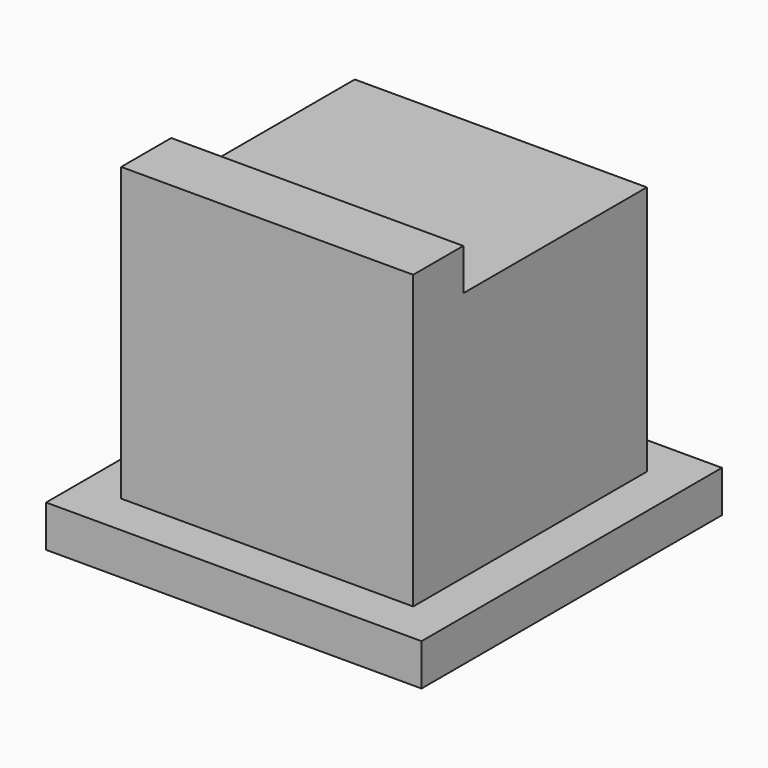
from build123d import *

# Parameters (mm, degrees)
F0_W     = 7
F0_H     = 7
F1_DEPTH = 6
F2_W     = 9
F2_H     = 9
F2_W_2   = 7
F2_H_2   = 7
F3_DEPTH = 1
F4_W     = 7
F4_H     = 1.5
F5_DEPTH = 1


with BuildPart() as f1:
    # F0 (on Top) → F1 (new body)
    with BuildSketch(Plane.XY):
        with Locations((-7.9846676588, 7.7618638836)):
            Rectangle(F0_W, F0_H)
    extrude(amount=F1_DEPTH)

    # F2 (on face) → F3 (join)
    with BuildSketch(Plane(origin=(0, 0, 0), x_dir=(1, 0, 0), z_dir=(0, 0, -1))):
        with Locations((-7.9846676588, -7.7618638836)):
            Rectangle(F2_W, F2_H)
        with Locations((-7.9846676588, -7.7618638836)):
            Rectangle(F2_W_2, F2_H_2, mode=Mode.SUBTRACT)
        with Locations((-7.9846676588, -7.7618638836)):
            Rectangle(F2_W_2, F2_H_2)
    extrude(amount=F3_DEPTH)

    # F4 (on face) → F5 (join)
    with BuildSketch(Plane.XY.offset(6)):
        with Locations((-7.9846676588, 5.0118638836)):
            Rectangle(F4_W, F4_H)
    extrude(amount=F5_DEPTH)


solid = f1.part
